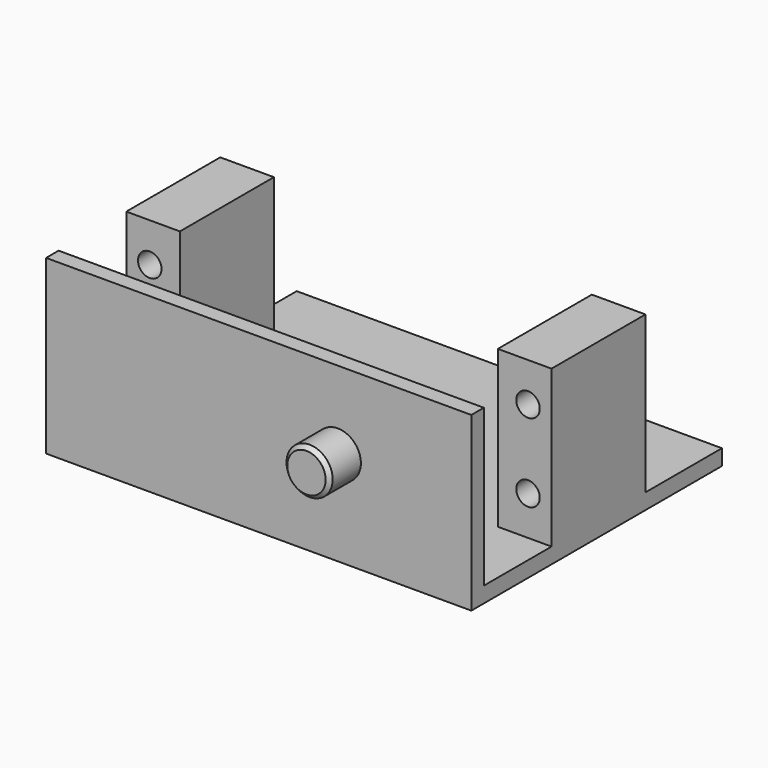
from build123d import *

# Parameters (mm, degrees)
SKETCH_W        = 54.3
SKETCH_H        = 38
PAD_DEPTH       = 2
SKETCH001_W     = 54.3
SKETCH001_H     = 2
PAD001_DEPTH    = 22
SKETCH002_R     = 2.95
PAD002_DEPTH    = 5
SKETCH003_W     = 6.85
SKETCH003_H     = 15
PAD003_DEPTH    = 22
SKETCH004_R     = 1.5
POCKET_DEPTH    = 15
SKETCH005_W     = 6.85
SKETCH005_H     = 15
PAD004_DEPTH    = 22
SKETCH006_R     = 1.5
POCKET001_DEPTH = 15
CHAMFER_SIZE    = 0.5


with BuildPart() as part:
    # Sketch → Pad (new body)
    with BuildSketch(Plane.XY):
        with Locations((27.15, 21)):
            Rectangle(SKETCH_W, SKETCH_H)
    extrude(amount=PAD_DEPTH)

    # Sketch001 → Pad001 (join)
    with BuildSketch(Plane.XY):
        with Locations((27.15, 1)):
            Rectangle(SKETCH001_W, SKETCH001_H)
    extrude(amount=PAD001_DEPTH)

    # Sketch002 → Pad002 (join)
    with BuildSketch(Plane.XZ):
        with Locations((37.25, 12)):
            Circle(SKETCH002_R)
    extrude(amount=PAD002_DEPTH)

    # Sketch003 → Pad003 (join)
    with BuildSketch(Plane.XY):
        with Locations((3.425, 20.3)):
            Rectangle(SKETCH003_W, SKETCH003_H)
    extrude(amount=PAD003_DEPTH)

    # Sketch004 (on Face14 of Pad003) → Pocket (cut)
    with BuildSketch(Plane(origin=(0, 27.8, 0), x_dir=(-1, 0, 0), z_dir=(0, 1, 0))):
        with Locations((-3, 17)):
            Circle(SKETCH004_R)
        with Locations((-3, 7)):
            Circle(SKETCH004_R)
    extrude(amount=-POCKET_DEPTH, mode=Mode.SUBTRACT)

    # Sketch005 → Pad004 (join)
    with BuildSketch(Plane.XY):
        with Locations((50.875, 20.3)):
            Rectangle(SKETCH005_W, SKETCH005_H)
    extrude(amount=PAD004_DEPTH)

    # Sketch006 (on Face13 of Pad004) → Pocket001 (cut)
    with BuildSketch(Plane(origin=(0, 27.8, 0), x_dir=(-1, 0, 0), z_dir=(0, 1, 0))):
        with Locations((-51.3, 17)):
            Circle(SKETCH006_R)
        with Locations((-51.3, 7)):
            Circle(SKETCH006_R)
    extrude(amount=-POCKET001_DEPTH, mode=Mode.SUBTRACT)

    # Chamfer
    chamfer_edges = [part.edges().sort_by_distance(p)[0] for p in [
        (34.3, -5, 12),
    ]]
    chamfer(chamfer_edges, length=CHAMFER_SIZE)


solid = part.part
